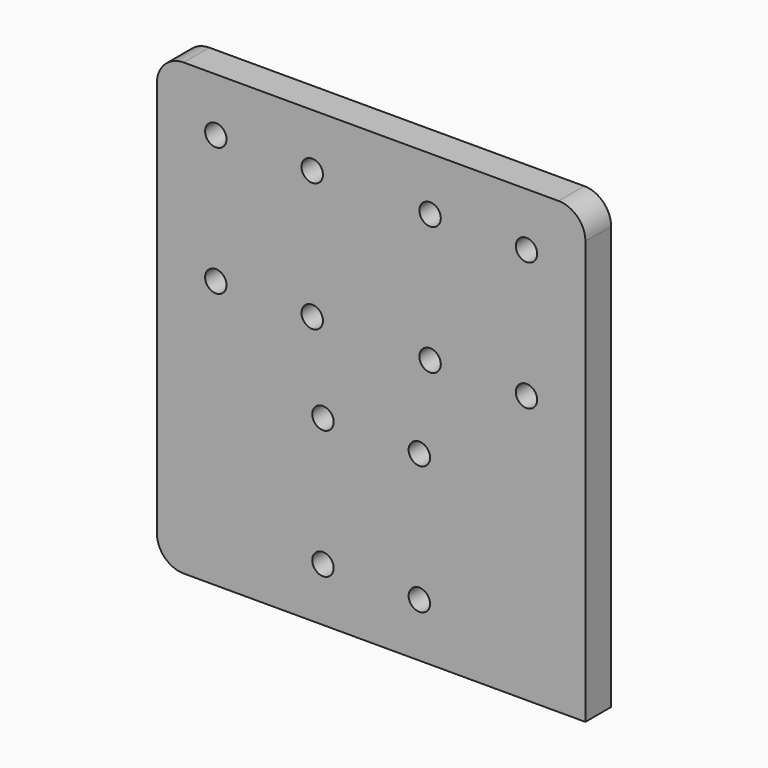
from build123d import *

# Parameters (mm, degrees)
F0_W     = 80
F0_H     = 84
F0_W_2   = 30
F0_H_2   = 34
F0_W_3   = 18
F0_H_3   = 24
F1_DEPTH = 6
F2_D     = 4
F3_R     = 5


with BuildPart() as f1:
    # F0 (on Front) → F1 (new body)
    with BuildSketch(Plane.XZ):
        Rectangle(F0_W, F0_H)
        with Locations((0, -20)):
            Rectangle(F0_W_2, F0_H_2, mode=Mode.SUBTRACT)
        with Locations((-20, 20)):
            Rectangle(F0_W_2, F0_H_2, mode=Mode.SUBTRACT)
        with Locations((20, 20)):
            Rectangle(F0_W_2, F0_H_2, mode=Mode.SUBTRACT)
        with Locations((-20, 20)):
            Rectangle(F0_W_2, F0_H_2)
        with Locations((-20, 20)):
            Rectangle(F0_W_3, F0_H_3, mode=Mode.SUBTRACT)
        with Locations((20, 20)):
            Rectangle(F0_W_2, F0_H_2)
        with Locations((20, 20)):
            Rectangle(F0_W_3, F0_H_3, mode=Mode.SUBTRACT)
        with Locations((0, -20)):
            Rectangle(F0_W_2, F0_H_2)
        with Locations((0, -20)):
            Rectangle(F0_W_3, F0_H_3, mode=Mode.SUBTRACT)
        with Locations((-20, 20)):
            Rectangle(F0_W_3, F0_H_3)
        with Locations((20, 20)):
            Rectangle(F0_W_3, F0_H_3)
        with Locations((0, -20)):
            Rectangle(F0_W_3, F0_H_3)
    extrude(amount=F1_DEPTH)

    # F2 (through all)
    with Locations(Plane(origin=(0, 0, 0), x_dir=(1, 0, 0), z_dir=(0, 1, 0))):
        with Locations((-29, -32), (-11, -32), (-29, -8), (-11, -8), (11, -32), (29, -32), (29, -8), (11, -8), (9, 8), (-9, 8), (-9, 32), (9, 32)):
            Hole(F2_D / 2)

    # F3
    f3_edges = [f1.edges().sort_by_distance(p)[0] for p in [
        (-40, -3, 42),
        (-40, -3, -42),
        (40, -3, 42),
    ]]
    fillet(f3_edges, radius=F3_R)


solid = f1.part
